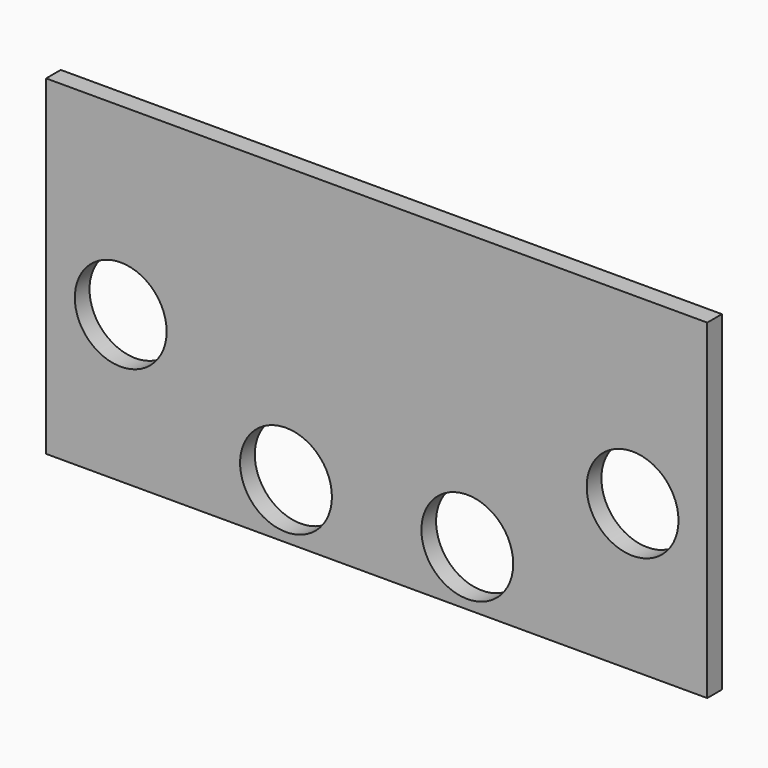
from build123d import *

# Parameters (mm, degrees)
F0_R     = 7.9375
F0_W     = 22.225
F0_H     = 15.875
F1_DEPTH = 3.175


with BuildPart() as f1:
    # F0 (on Front) → F1 (new body)
    with BuildSketch(Plane.XZ):
        Polygon((-75.919628, 16.362683), (-75.919628, -40.787317), (38.380372, -40.787317), (38.380372, 16.362683), (12.980372, 16.362683), (12.980372, 0.487683), (-9.244628, 0.487683), (-9.244628, 16.362683), (-28.294628, 16.362683), (-28.294628, 0.487683), (-50.519628, 0.487683), (-50.519628, 16.362683), align=None)
        with Locations((-34.441428, -31.262317)):
            Circle(F0_R, mode=Mode.SUBTRACT)
        with Locations((-63.016428, -15.387317)):
            Circle(F0_R, mode=Mode.SUBTRACT)
        with Locations((-3.097828, -31.262317)):
            Circle(F0_R, mode=Mode.SUBTRACT)
        with Locations((25.477172, -15.387317)):
            Circle(F0_R, mode=Mode.SUBTRACT)
        with Locations((-39.407128, 8.425183)):
            Rectangle(F0_W, F0_H)
        with Locations((1.867872, 8.425183)):
            Rectangle(F0_W, F0_H)
    extrude(amount=F1_DEPTH)


solid = f1.part
